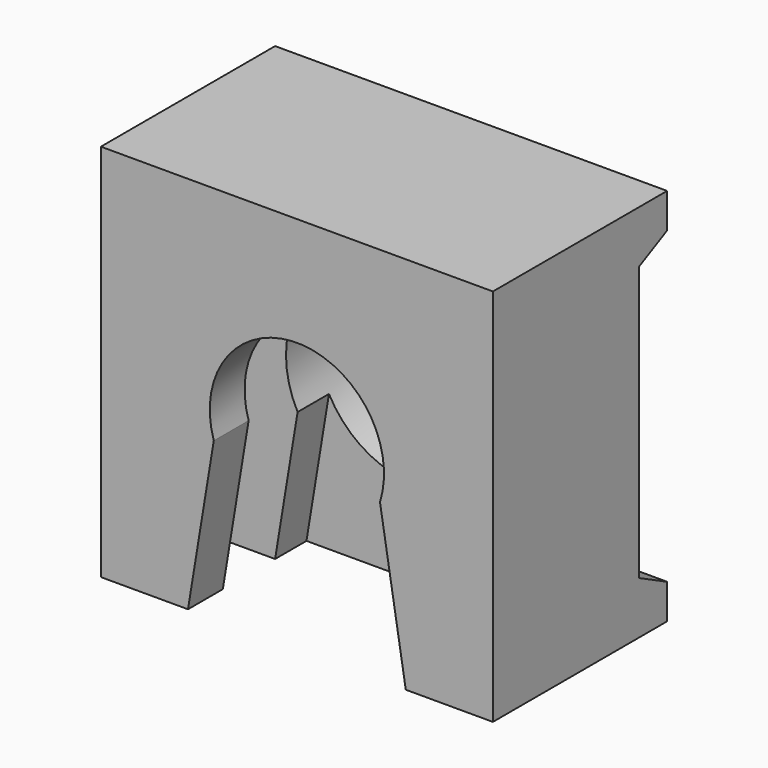
from build123d import *

# Parameters (mm, degrees)
F1_DEPTH  = 12.7
F4_DEPTH  = 3.81
F6_DEPTH  = 8.636
F8_DEPTH  = 25.4
F9_R      = 5.715
F10_DEPTH = 4.318


with BuildPart() as f1:
    # F0 (on Front) → F1 (new body)
    with BuildSketch(Plane.XZ):
        Polygon((-11.43, -5.334), (11.43, -5.334), (11.43, 5.334), (11.43, 16.764), (-11.43, 16.764), (-11.43, 5.334), align=None)
    extrude(amount=F1_DEPTH)

    # F3 (on offset) → F4 (cut)
    with BuildSketch(Plane.XZ.offset(6.35)):
        with BuildLine():
            Line((-9.144, -5.334), (9.144, -5.334))
            Line((9.144, -5.334), (9.144, 5.334))
            ThreePointArc((9.144, 5.334), (0, 14.478), (-9.144, 5.334))
            Line((-9.144, 5.334), (-9.144, -5.334))
        make_face()
    extrude(amount=F4_DEPTH, mode=Mode.SUBTRACT)

    # F5 (on face) → F6 (cut)
    with BuildSketch(Plane.XZ.offset(12.7)):
        with BuildLine():
            Line((6.35, -5.334), (4.846011, 3.81))
            ThreePointArc((4.846011, 3.81), (0, 10.414), (-4.846011, 3.81))
            Line((-4.846011, 3.81), (-6.35, -5.334))
            Line((-6.35, -5.334), (6.35, -5.334))
        make_face()
    extrude(amount=-F6_DEPTH, mode=Mode.SUBTRACT)

    # F7 (on face) → F8 (cut)
    with BuildSketch(Plane.YZ.offset(11.43)):
        Polygon((-2.032, -2.286), (0, -3.302), (0, 14.732), (-2.032, 13.716), align=None)
    extrude(amount=-F8_DEPTH, mode=Mode.SUBTRACT)

    # F9 (on face) → F10 (cut, through all)
    with BuildSketch(Plane(origin=(0, -2.032, 0), x_dir=(-1, 0, 0), z_dir=(0, 1, 0))):
        with Locations((0, 5.334)):
            Circle(F9_R)
    extrude(amount=-F10_DEPTH, mode=Mode.SUBTRACT)


solid = f1.part
